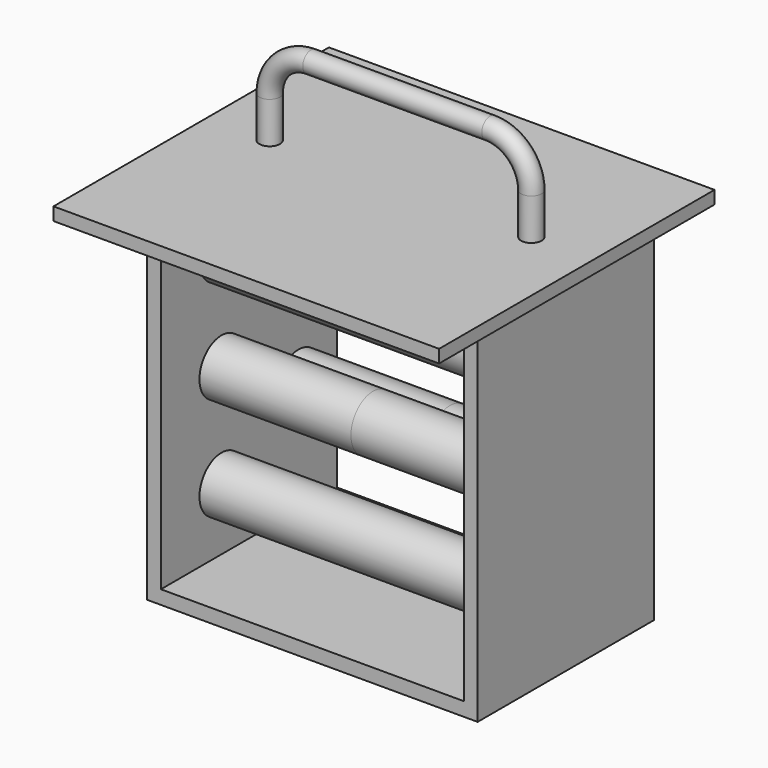
from build123d import *

# Parameters (mm, degrees)
F0_W     = 101.6
F0_H     = 165.1
F0_R     = 15.875
F1_DEPTH = 76.2
F2_W     = 139.7
F2_H     = 158.75
F3_DEPTH = 101.601
F4_R     = 12.7
F5_DEPTH = 73.025
F7_DEPTH = 88.9
F8_R     = 4.7625


with BuildPart() as f1:
    # F0 (on Right) → F1 (new body, symmetric)
    with BuildSketch(Plane.YZ):
        Rectangle(F0_W, F0_H)
        with Locations((-25.4, -57.15)):
            Circle(F0_R, mode=Mode.SUBTRACT)
        with Locations((-25.4, 0)):
            Circle(F0_R, mode=Mode.SUBTRACT)
        with Locations((25.4, -28.575)):
            Circle(F0_R, mode=Mode.SUBTRACT)
        with Locations((-25.4, 57.15)):
            Circle(F0_R, mode=Mode.SUBTRACT)
        with Locations((25.4, 28.575)):
            Circle(F0_R, mode=Mode.SUBTRACT)
        with Locations((-25.4, 57.15)):
            Circle(F0_R)
        with Locations((25.4, 28.575)):
            Circle(F0_R)
        with Locations((-25.4, 0)):
            Circle(F0_R)
        with Locations((25.4, -28.575)):
            Circle(F0_R)
        with Locations((-25.4, -57.15)):
            Circle(F0_R)
    extrude(amount=F1_DEPTH, both=True)

    # F2 (on face) → F3 (cut, through all)
    with BuildSketch(Plane.XZ.offset(50.8)):
        with Locations((0, 3.175)):
            Rectangle(F2_W, F2_H)
    extrude(amount=-F3_DEPTH, mode=Mode.SUBTRACT)

    # F4 (on Right) → F5 (join, symmetric)
    with BuildSketch(Plane.YZ):
        with Locations((-15.875, 47.625)):
            Circle(F4_R)
        with Locations((28.575, 23.8125)):
            Circle(F4_R)
        with Locations((-15.875, 0)):
            Circle(F4_R)
        with Locations((28.575, -23.8125)):
            Circle(F4_R)
        with Locations((-15.875, -47.625)):
            Circle(F4_R)
    extrude(amount=F5_DEPTH, both=True)

    # F6 (on Right) → F7 (join, symmetric)
    with BuildSketch(Plane.YZ):
        Polygon((-50.8, 82.55), (50.8, 82.55), (69.85, 82.55), (69.85, 88.519), (-88.9, 88.519), (-88.9, 82.55), align=None)
    extrude(amount=F7_DEPTH, both=True)

    # F10: sweep along a path in F9
    with BuildLine(Plane.XZ) as f10_path:
        Line((-60.325, 88.519), (-60.325, 107.569))
        ThreePointArc((-60.325, 107.569), (-54.7453841816, 121.0393841816), (-41.275, 126.619))
        Line((-41.275, 126.619), (41.275, 126.619))
        ThreePointArc((41.275, 126.619), (54.7453841816, 121.0393841816), (60.325, 107.569))
        Line((60.325, 107.569), (60.325, 88.519))
    # F8 (on face) → F10 (sweep)
    with BuildSketch(Plane.XY.offset(88.519)):
        with Locations((-60.325, 0)):
            Circle(F8_R)
    sweep(path=f10_path.line)


solid = f1.part
